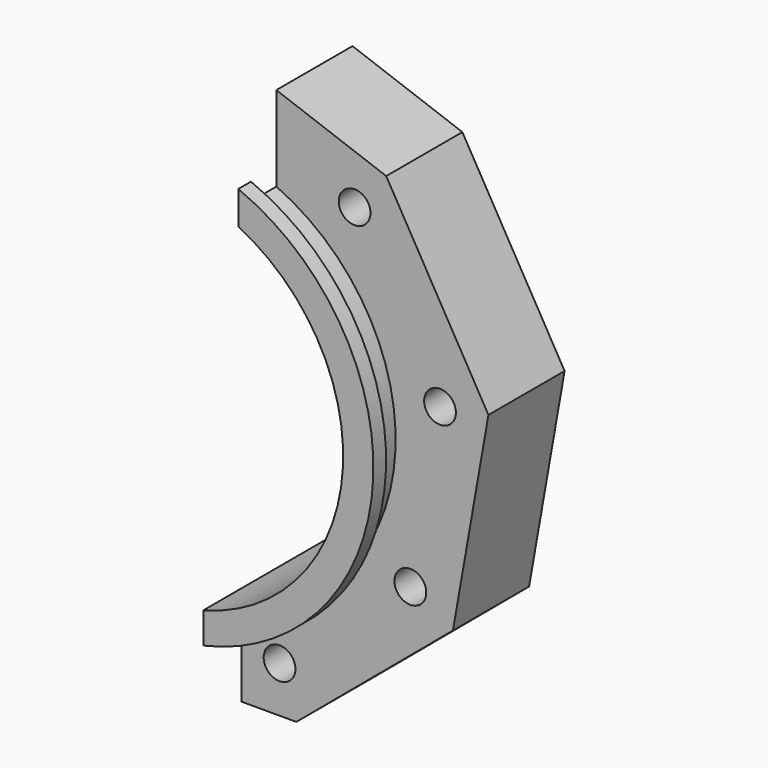
from build123d import *

# Parameters (mm, degrees)
F0_R     = 2
F1_DEPTH = 6
F2_DEPTH = 12
F4_DEPTH = 2
F6_DEPTH = 2


with BuildPart() as f1:
    # F0 (on Front) → F1 (new body, symmetric)
    with BuildSketch(Plane.XZ):
        with BuildLine():
            Line((24.215026, 28.858344), (10.364281, 33.899603))
            Line((10.364281, 33.899603), (10.364281, 25.364181))
            ThreePointArc((10.364281, 25.364181), (27.303004, -2.303471), (5.968233, -26.742105))
            Line((5.968233, -26.742105), (5.968233, -35.4))
            Line((5.968233, -35.4), (12.884546, -35.4))
            Line((12.884546, -35.4), (32.624816, -18.835947))
            Line((32.624816, -18.835947), (37.099572, 6.541656))
            Line((37.099572, 6.541656), (24.215026, 28.858344))
        make_face()
        with Locations((10.764081, -29.574071)):
            Circle(F0_R, mode=Mode.SUBTRACT)
        with Locations((27.255351, -15.735884)):
            Circle(F0_R, mode=Mode.SUBTRACT)
        with Locations((20.229663, 24.108774)):
            Circle(F0_R, mode=Mode.SUBTRACT)
        with Locations((30.993642, 5.465015)):
            Circle(F0_R, mode=Mode.SUBTRACT)
        with BuildLine():
            ThreePointArc((5.968233, -26.742105), (27.303004, -2.303471), (10.364281, 25.364181))
            Line((10.364281, 25.364181), (10.364281, 23.189258))
            ThreePointArc((10.364281, 23.189258), (25.293606, -2.322395), (5.968233, -24.688868))
            Line((5.968233, -24.688868), (5.968233, -26.742105))
        make_face()
    extrude(amount=F1_DEPTH, both=True)

    # F0 (on Front) → F2 (join, symmetric)
    with BuildSketch(Plane.XZ):
        with BuildLine():
            ThreePointArc((5.968233, -24.688868), (25.293606, -2.322395), (10.364281, 23.189258))
            Line((10.364281, 23.189258), (10.364281, 21.189258))
            ThreePointArc((10.364281, 21.189258), (23.471393, -2.344502), (5.968233, -22.820674))
            Line((5.968233, -22.820674), (5.968233, -24.688868))
        make_face()
    extrude(amount=F2_DEPTH, both=True)

    # F3 (on face) → F4 (join)
    with BuildSketch(Plane.XZ.offset(12)):
        with BuildLine():
            Line((5.968233, -24.688868), (5.968233, -26.742105))
            ThreePointArc((5.968233, -26.742105), (27.303004, -2.303471), (10.364281, 25.364181))
            Line((10.364281, 25.364181), (10.364281, 23.189258))
            ThreePointArc((10.364281, 23.189258), (25.293606, -2.322395), (5.968233, -24.688868))
        make_face()
    extrude(amount=-F4_DEPTH)

    # F5 (on face) → F6 (join)
    with BuildSketch(Plane(origin=(0, 12, 0), x_dir=(-1, 0, 0), z_dir=(0, 1, 0))):
        with BuildLine():
            ThreePointArc((-10.364281, 25.364181), (-27.303004, -2.303471), (-5.968233, -26.742105))
            Line((-5.968233, -26.742105), (-5.968233, -24.688868))
            ThreePointArc((-5.968233, -24.688868), (-25.293606, -2.322395), (-10.364281, 23.189258))
            Line((-10.364281, 23.189258), (-10.364281, 25.364181))
        make_face()
    extrude(amount=-F6_DEPTH)


solid = f1.part
